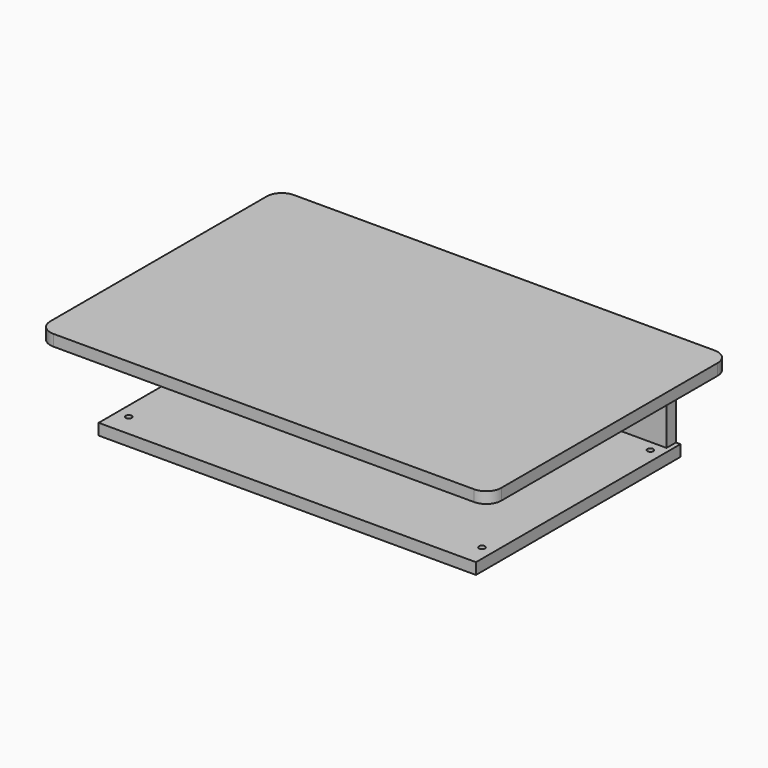
from build123d import *

# Parameters (mm, degrees)
F1_DEPTH  = 19.05
F2_W      = 19.84375
F2_H      = 411.95625
F2_H_2    = 412.75
F3_DEPTH  = 7.62
F5_DEPTH  = 129.8829
F6_W      = 637.54
F6_H      = 431.8
F7_DEPTH  = 19.05
F8_R      = 5.08
F9_DEPTH  = 25.4
F10_R     = 5.08
F11_DEPTH = 25.4


with BuildPart() as f1:
    # F0 (on Top) → F1 (new body)
    with BuildSketch(Plane.XY):
        with BuildLine():
            Line((355.6, 254), (-355.6, 254))
            ThreePointArc((-355.6, 254), (-373.560512, 246.560512), (-381, 228.6))
            Line((-381, 228.6), (-381, -228.6))
            ThreePointArc((-381, -228.6), (-373.560512, -246.560512), (-355.6, -254))
            Line((-355.6, -254), (355.6, -254))
            ThreePointArc((355.6, -254), (373.560512, -246.560512), (381, -228.6))
            Line((381, -228.6), (381, 228.6))
            ThreePointArc((381, 228.6), (373.560512, 246.560512), (355.6, 254))
        make_face()
    extrude(amount=F1_DEPTH)

    # F2 (on face) → F3 (cut)
    with BuildSketch(Plane(origin=(0, 0, 0), x_dir=(1, 0, 0), z_dir=(0, 0, -1))):
        Polygon((-330.2, -228.6), (330.2, -228.6), (330.2, -208.75625), (310.35625, -208.75625), (-310.35625, -208.75625), (-330.2, -208.75625), align=None)
        with Locations((320.278125, -2.778125)):
            Rectangle(F2_W, F2_H)
        with Locations((-320.278125, -2.38125)):
            Rectangle(F2_W, F2_H_2)
    extrude(amount=-F3_DEPTH, mode=Mode.SUBTRACT)


with BuildPart() as f5:
    # F4 (on face) → F5 (new body)
    with BuildSketch(Plane(origin=(0, 0, 7.62), x_dir=(1, 0, 0), z_dir=(0, 0, -1))):
        Polygon((310.35625, -228.6), (310.35625, -208.75625), (-310.35625, -208.75625), (-311.94375, -208.75625), (-311.94375, -228.6), align=None)
    extrude(amount=F5_DEPTH)

    # F8 (on face) → F9 (cut)
    with BuildSketch(Plane(origin=(0, 228.6, 0), x_dir=(-1, 0, 0), z_dir=(0, 1, 0))):
        with Locations((-290.03625, -14.732)):
            Circle(F8_R)
        with Locations((291.62375, -14.732)):
            Circle(F8_R)
    extrude(amount=-F9_DEPTH, mode=Mode.SUBTRACT)


with BuildPart() as f7:
    # F6 (on face) → F7 (new body)
    with BuildSketch(Plane(origin=(0, 0, -122.2629), x_dir=(1, 0, 0), z_dir=(0, 0, -1))):
        with Locations((-0.79375, -12.7)):
            Rectangle(F6_W, F6_H)
    extrude(amount=F7_DEPTH)

    # F10 (on face) → F11 (cut)
    with BuildSketch(Plane.XY.offset(-122.2629)):
        with Locations((-299.24375, 190.5)):
            Circle(F10_R)
        with Locations((297.65625, 190.5)):
            Circle(F10_R)
        with Locations((297.65625, -165.1)):
            Circle(F10_R)
        with Locations((-299.24375, -165.1)):
            Circle(F10_R)
    extrude(amount=-F11_DEPTH, mode=Mode.SUBTRACT)


solid = Compound([f1.part, f5.part, f7.part])
